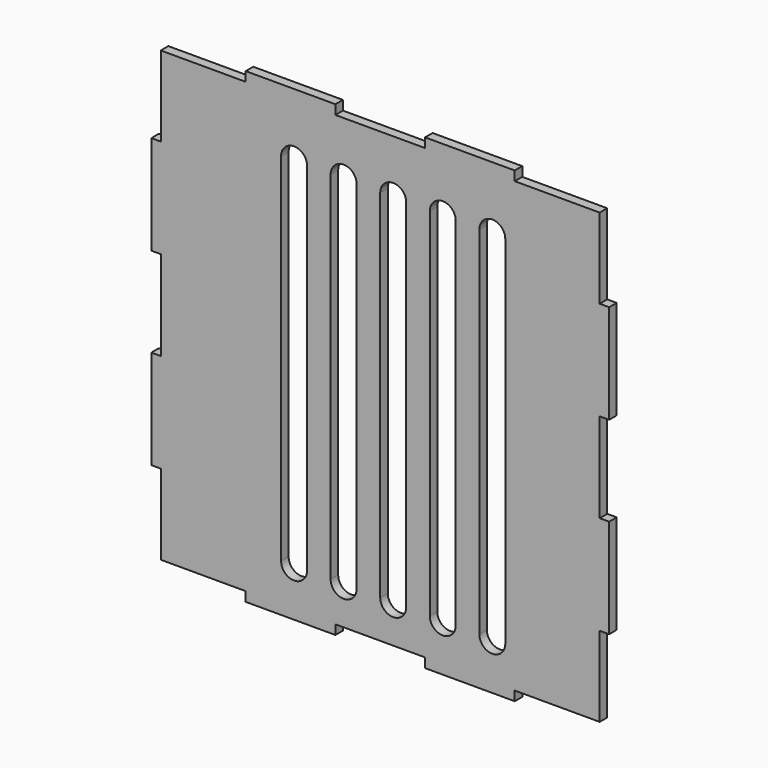
from build123d import *

# Parameters (mm, degrees)
F1_DEPTH = 4
F2_W     = 11
F2_H     = 151
F3_DEPTH = 4


with BuildPart() as f1:
    # F0 (on Front) → F1 (new body)
    with BuildSketch(Plane.XZ):
        Polygon((40, 4), (40, 0), (78, 0), (78, 4), (116, 4), (116, 0), (154, 0), (154, 4), (190, 4), (190, 38), (194, 38), (194, 80), (190, 80), (190, 118), (194, 118), (194, 160), (190, 160), (190, 194), (154, 194), (154, 198), (116, 198), (116, 194), (78, 194), (78, 198), (40, 198), (40, 194), (4, 194), (4, 160), (0, 160), (0, 118), (4, 118), (4, 80), (0, 80), (0, 38), (4, 38), (4, 4), align=None)
    extrude(amount=F1_DEPTH)

    # F2 (on Front) → F3 (cut)
    with BuildSketch(Plane.XZ):
        with BuildLine():
            ThreePointArc((65.992474, 171.123865), (60.492474, 176.623865), (54.992474, 171.123865))
            Line((54.992474, 171.123865), (65.992474, 171.123865))
        make_face()
        with Locations((60.492474, 95.623865)):
            Rectangle(F2_W, F2_H)
        with BuildLine():
            Line((65.992474, 20.123865), (54.992474, 20.123865))
            ThreePointArc((54.992474, 20.123865), (60.492474, 14.623865), (65.992474, 20.123865))
        make_face()
        with BuildLine():
            ThreePointArc((86.992474, 171.123865), (81.492474, 176.623865), (75.992474, 171.123865))
            Line((75.992474, 171.123865), (86.992474, 171.123865))
        make_face()
        with Locations((81.492474, 95.623865)):
            Rectangle(F2_W, F2_H)
        with BuildLine():
            Line((86.992474, 20.123865), (75.992474, 20.123865))
            ThreePointArc((75.992474, 20.123865), (81.492474, 14.623865), (86.992474, 20.123865))
        make_face()
        with BuildLine():
            ThreePointArc((107.992474, 171.123865), (102.492474, 176.623865), (96.992474, 171.123865))
            Line((96.992474, 171.123865), (107.992474, 171.123865))
        make_face()
        with Locations((102.492474, 95.623865)):
            Rectangle(F2_W, F2_H)
        with BuildLine():
            Line((107.992474, 20.123865), (96.992474, 20.123865))
            ThreePointArc((96.992474, 20.123865), (102.492474, 14.623865), (107.992474, 20.123865))
        make_face()
        with BuildLine():
            ThreePointArc((128.992474, 171.123865), (123.492474, 176.623865), (117.992474, 171.123865))
            Line((117.992474, 171.123865), (128.992474, 171.123865))
        make_face()
        with Locations((123.492474, 95.623865)):
            Rectangle(F2_W, F2_H)
        with BuildLine():
            Line((128.992474, 20.123865), (117.992474, 20.123865))
            ThreePointArc((117.992474, 20.123865), (123.492474, 14.623865), (128.992474, 20.123865))
        make_face()
        with BuildLine():
            ThreePointArc((149.992474, 171.123865), (144.492474, 176.623865), (138.992474, 171.123865))
            Line((138.992474, 171.123865), (149.992474, 171.123865))
        make_face()
        with Locations((144.492474, 95.623865)):
            Rectangle(F2_W, F2_H)
        with BuildLine():
            Line((149.992474, 20.123865), (138.992474, 20.123865))
            ThreePointArc((138.992474, 20.123865), (144.492474, 14.623865), (149.992474, 20.123865))
        make_face()
    extrude(amount=F3_DEPTH, mode=Mode.SUBTRACT)


solid = f1.part
